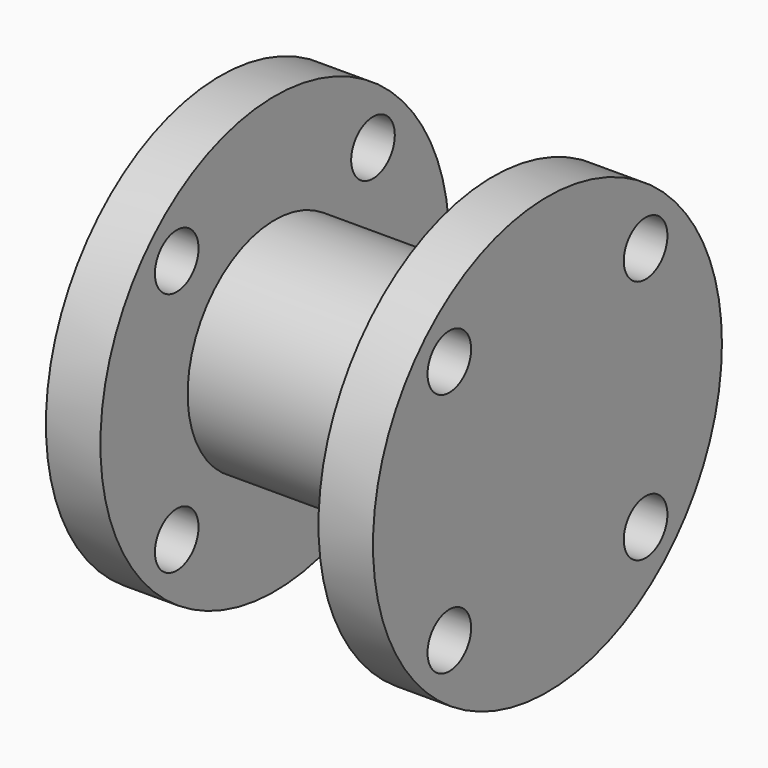
from build123d import *

# Parameters (mm, degrees)
F0_R     = 50.8
F0_R_2   = 6.35
F0_R_3   = 19.05
F1_DEPTH = 12.7
F2_R     = 25.4
F3_DEPTH = 38.1


with BuildPart() as f1:
    # F0 (on Right) → F1 (new body)
    with BuildSketch(Plane.YZ):
        Circle(F0_R)
        with Locations((-28.575, -28.575)):
            Circle(F0_R_2, mode=Mode.SUBTRACT)
        Circle(F0_R_3, mode=Mode.SUBTRACT)
        with Locations((28.575, -28.575)):
            Circle(F0_R_2, mode=Mode.SUBTRACT)
        with Locations((-28.575, 28.575)):
            Circle(F0_R_2, mode=Mode.SUBTRACT)
        with Locations((28.575, 28.575)):
            Circle(F0_R_2, mode=Mode.SUBTRACT)
    extrude(amount=F1_DEPTH)

    # F2 (on Right) → F3 (join)
    with BuildSketch(Plane.YZ):
        Circle(F2_R)
    extrude(amount=F3_DEPTH)

    # F4: F1 across face


with BuildPart() as f1_1:
    add(f1.part)
    add(f1.part.mirror(Plane.YZ.offset(38.1)))


solid = f1_1.part
